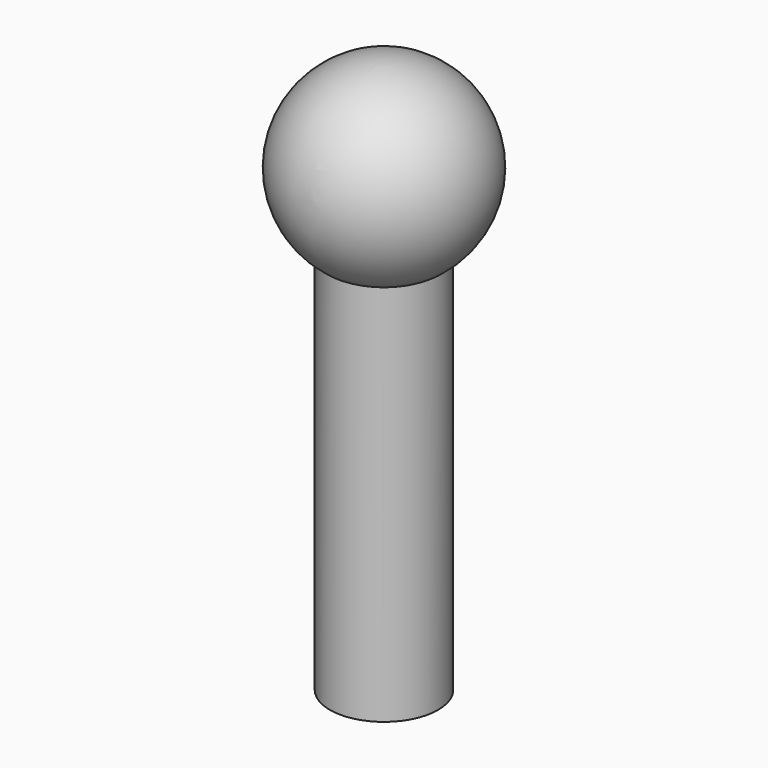
from build123d import *

# Parameters (mm, degrees)
F0_R           = 4
F1_DEPTH       = 2
F4_DEPTH       = 25
F6_D           = 3
F6_DEPTH       = 9.5
F6_CBORE_D     = 3
F6_CBORE_DEPTH = 9.5
F6_TIP         = 0.9012909285
F8_DEPTH       = 2.5


with BuildPart() as f1:
    # F0 (on Top) → F1 (new body, symmetric)
    with BuildSketch(Plane.XY):
        Circle(F0_R)
    extrude(amount=F1_DEPTH, both=True)

    # F4 (add): a face of the model
    f4_faces = [f1.faces().sort_by_distance(p)[0] for p in [
        (0, 0, -2),
    ]]
    extrude(f4_faces, amount=F4_DEPTH)

    # F6
    with Locations(Plane(origin=(0, 0, -27), x_dir=(1, 0, 0), z_dir=(0, 0, -1))):
        with Locations((0, 0)):
            CounterBoreHole(F6_D / 2, F6_CBORE_D / 2, F6_CBORE_DEPTH, depth=F6_DEPTH)
            with Locations((0, 0, -(F6_DEPTH + F6_TIP / 2))):  # 118° drill point
                Cone(0, F6_D / 2, F6_TIP, mode=Mode.SUBTRACT)

    # F7 (on face) → F8 (cut)
    with BuildSketch(Plane(origin=(0, 0, -27), x_dir=(1, 0, 0), z_dir=(0, 0, -1))):
        Polygon((2.85, -1.6454482672), (2.85, 1.6454482672), (0, 3.2908965344), (-2.85, 1.6454482672), (-2.85, -1.6454482672), (0, -3.2908965344), align=None)
    extrude(amount=-F8_DEPTH, mode=Mode.SUBTRACT)


with BuildPart() as f3:
    # F2 (on Right) → F3 (revolve)
    with BuildSketch(Plane.YZ):
        with BuildLine():
            Line((0, 0), (0, 14))
            ThreePointArc((0, 14), (-7, 7), (0, 0))
        make_face()
    revolve(axis=Axis((0, 0, 7.2875723417), (0, 0, -1)))


solid = Compound([f1.part, f3.part])
